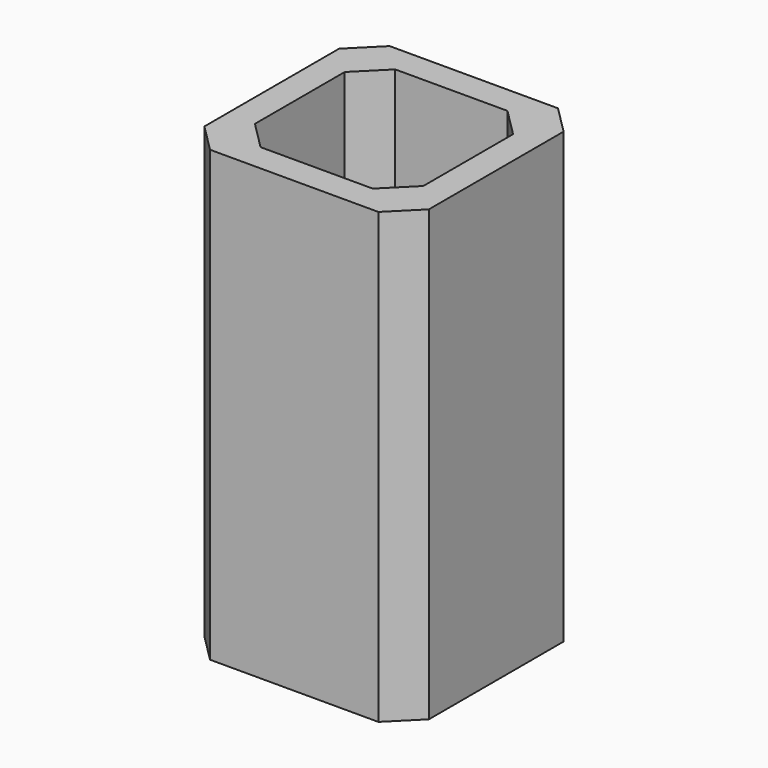
from build123d import *

# Parameters (mm, degrees)
F0_W     = 101.6
F0_H     = 101.6
F0_W_2   = 76.2
F0_H_2   = 76.2
F1_DEPTH = 203.2
F2_SIZE  = 12.7
F3_SIZE  = 12.7


with BuildPart() as f1:
    # F0 (on Top) → F1 (new body)
    with BuildSketch(Plane.XY):
        with Locations((50.8, 50.8)):
            Rectangle(F0_W, F0_H)
        with Locations((50.8, 50.8)):
            Rectangle(F0_W_2, F0_H_2, mode=Mode.SUBTRACT)
    extrude(amount=F1_DEPTH)

    # F2
    f2_edges = [f1.edges().sort_by_distance(p)[0] for p in [
        (12.7, 88.9, 101.6),
        (88.9, 88.9, 101.6),
        (88.9, 12.7, 101.6),
        (12.7, 12.7, 101.6),
    ]]
    chamfer(f2_edges, length=F2_SIZE)

    # F3
    f3_edges = [f1.edges().sort_by_distance(p)[0] for p in [
        (101.6, 0, 101.6),
        (101.6, 101.6, 101.6),
        (0, 0, 101.6),
        (0, 101.6, 101.6),
    ]]
    chamfer(f3_edges, length=F3_SIZE)


solid = f1.part
